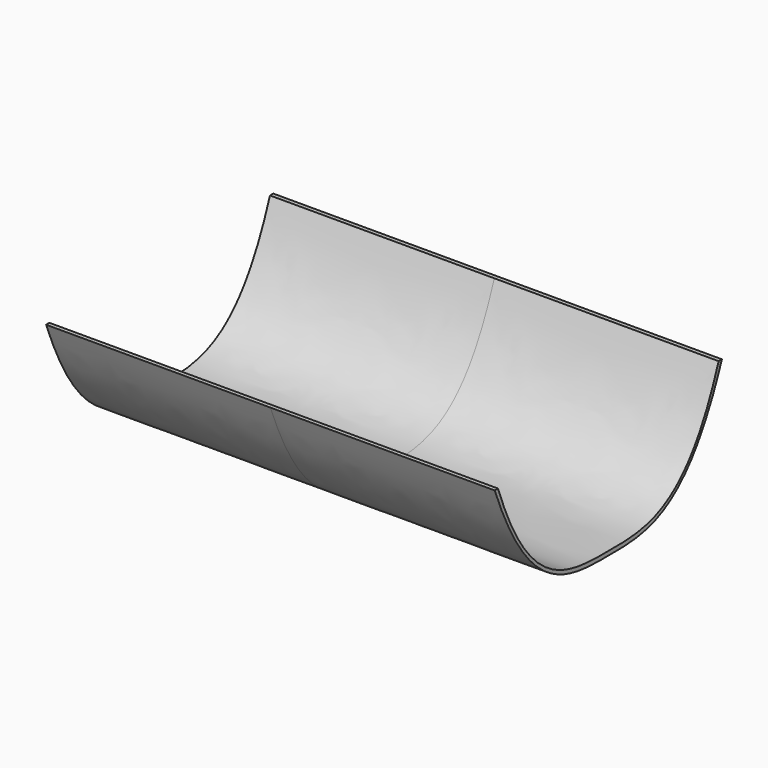
from build123d import *

# Parameters (mm, degrees)
F1_DEPTH = 86.51875


with BuildPart() as f1:
    # F0 (on Right) → F1 (new body, symmetric)
    with BuildSketch(Plane.YZ):
        with BuildLine():
            Line((-53.18125, 0), (-54.76875, 0))
            add(Edge.make_bspline(
                [(-54.76875, 0), (-37.966708, -44.45), (0, -44.45), (37.966708, -44.45), (54.76875, 0)],
                knots=[0, 0, 0, 0, 70.536646, 141.073293, 141.073293, 141.073293, 141.073293], degree=3))
            Line((54.76875, 0), (53.18125, 0))
            add(Edge.make_bspline(
                [(-53.18125, 0), (-37.966708, -42.8625), (0, -42.8625), (37.966708, -42.8625), (53.18125, 0)],
                knots=[0, 0, 0, 0, 68.304021, 136.608042, 136.608042, 136.608042, 136.608042], degree=3))
        make_face()
    extrude(amount=F1_DEPTH, both=True)


solid = f1.part
